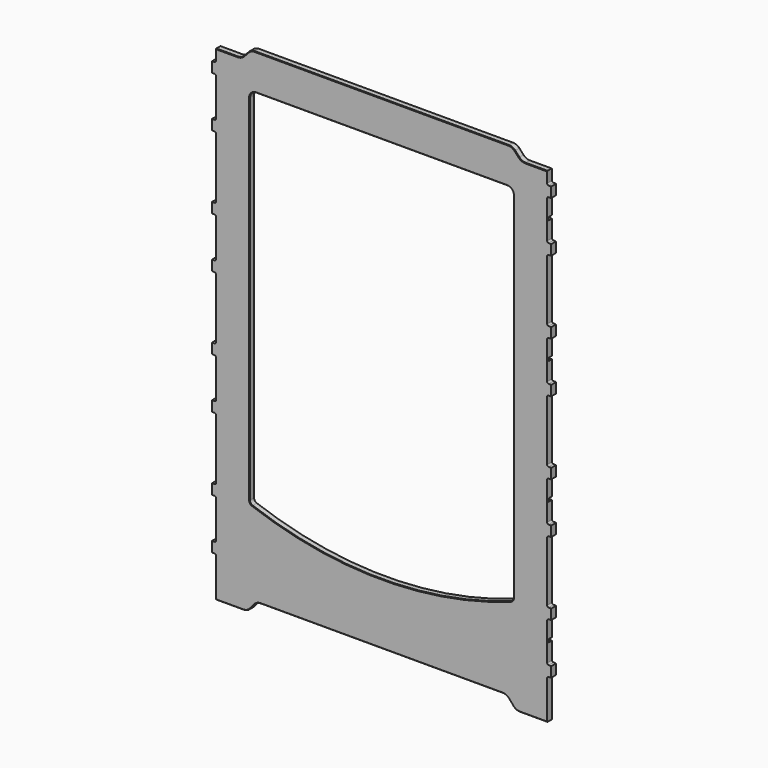
from build123d import *

# Parameters (mm, degrees)
F0_W      = 326.2
F0_H      = 488
F1_DEPTH  = 6
F3_DEPTH  = 6
F4_R      = 1.5
F6_DEPTH  = 25
F7_R      = 6.5
F8_R      = 4
F9_SIZE   = 0.5
F11_DEPTH = 25
F12_R     = 8.5
F13_SIZE  = 0.5
F15_DEPTH = 25
F16_R     = 8.5
F17_SIZE  = 0.5
F18_W     = 6.3
F18_H     = 3
F19_DEPTH = 4.5
F21_DEPTH = 4.5
F23_DEPTH = 1
F25_DEPTH = 4.5


with BuildPart() as f1:
    # F0 (on Front) → F1 (new body)
    with BuildSketch(Plane.XZ):
        Rectangle(F0_W, F0_H)
    extrude(amount=F1_DEPTH)

    # F2 (on face) → F3 (join)
    with BuildSketch(Plane.XZ.offset(6)):
        Polygon((-167.1, 211.8), (-163.1, 211.660316922), (-163.1, 221.939683078), (-167.1, 221.8), align=None)
        Polygon((-167.1, 161.8), (-163.1, 161.660316922), (-163.1, 171.939683078), (-167.1, 171.8), align=None)
        Polygon((-167.1, 89.8), (-163.1, 89.660316922), (-163.1, 99.939683078), (-167.1, 99.8), align=None)
        Polygon((-167.1, 39.8), (-163.1, 39.660316922), (-163.1, 49.939683078), (-167.1, 49.8), align=None)
        Polygon((-167.1, -32.2), (-163.1, -32.339683078), (-163.1, -22.060316922), (-167.1, -22.2), align=None)
        Polygon((-167.1, -82.2), (-163.1, -82.339683078), (-163.1, -72.060316922), (-167.1, -72.2), align=None)
        Polygon((-167.1, -154.2), (-163.1, -154.339683078), (-163.1, -144.060316922), (-167.1, -144.2), align=None)
        Polygon((-167.1, -194.2), (-167.1, -204.2), (-163.1, -204.339683078), (-163.1, -194.060316922), align=None)
        Polygon((163.1, -194.060316922), (163.1, -204.339683078), (167.1, -204.2), (167.1, -194.2), align=None)
        Polygon((163.1, -144.060316922), (163.1, -154.339683078), (167.1, -154.2), (167.1, -144.2), align=None)
        Polygon((163.1, -72.060316922), (163.1, -82.339683078), (167.1, -82.2), (167.1, -72.2), align=None)
        Polygon((163.1, -22.060316922), (163.1, -32.339683078), (167.1, -32.2), (167.1, -22.2), align=None)
        Polygon((163.1, 49.939683078), (163.1, 39.660316922), (167.1, 39.8), (167.1, 49.8), align=None)
        Polygon((163.1, 99.939683078), (163.1, 89.660316922), (167.1, 89.8), (167.1, 99.8), align=None)
        Polygon((163.1, 171.939683078), (163.1, 161.660316922), (167.1, 161.8), (167.1, 171.8), align=None)
        Polygon((163.1, 221.939683078), (163.1, 211.660316922), (167.1, 211.8), (167.1, 221.8), align=None)
    extrude(amount=-F3_DEPTH)

    # F4
    f4_edges = [f1.edges().sort_by_distance(p)[0] for p in [
        (-163.1, -3, -204.339683),
        (-163.1, -3, -194.060317),
        (-163.1, -3, -154.339683),
        (-163.1, -3, -72.060317),
        (-163.1, -3, -82.339683),
        (-163.1, -3, -144.060317),
        (-163.1, -3, -22.060317),
        (-163.1, -3, -32.339683),
        (-163.1, -3, 39.660317),
        (-163.1, -3, 89.660317),
        (-163.1, -3, 161.660317),
        (-163.1, -3, 221.939683),
        (-163.1, -3, 171.939683),
        (-163.1, -3, 99.939683),
        (-163.1, -3, 49.939683),
        (-163.1, -3, 211.660317),
        (163.1, -3, 221.939683),
        (163.1, -3, 171.939683),
        (163.1, -3, 99.939683),
        (163.1, -3, 49.939683),
        (163.1, -3, -22.060317),
        (163.1, -3, -72.060317),
        (163.1, -3, -194.060317),
        (163.1, -3, -144.060317),
        (163.1, -3, -204.339683),
        (163.1, -3, -154.339683),
        (163.1, -3, -82.339683),
        (163.1, -3, -32.339683),
        (163.1, -3, 39.660317),
        (163.1, -3, 89.660317),
        (163.1, -3, 161.660317),
        (163.1, -3, 211.660317),
    ]]
    fillet(f4_edges, radius=F4_R)

    # F5 (on face) → F6 (cut)
    with BuildSketch(Plane.XZ.offset(6)):
        with BuildLine():
            Line((130, -149.7456467392), (130, 208.5))
            Line((130, 208.5), (-130, 208.5))
            Line((-130, 208.5), (-130, -149.7456467392))
            ThreePointArc((-130, -149.7456467392), (0, -173), (130, -149.7456467392))
        make_face()
    extrude(amount=-F6_DEPTH, mode=Mode.SUBTRACT)

    # F7
    f7_edges = [f1.edges().sort_by_distance(p)[0] for p in [
        (-130, -3, 208.5),
        (130, -3, 208.5),
    ]]
    fillet(f7_edges, radius=F7_R)

    # F8
    f8_edges = [f1.edges().sort_by_distance(p)[0] for p in [
        (130, -3, -149.745647),
        (-130, -3, -149.745647),
    ]]
    fillet(f8_edges, radius=F8_R)

    # F9
    f9_edges = [f1.edges().sort_by_distance(p)[0] for p in [
        (130, 0, 27.52579),
        (130, -6, 27.52579),
    ]]
    chamfer(f9_edges, length=F9_SIZE)

    # F10 (on face) → F11 (cut)
    with BuildSketch(Plane.XZ.offset(6)):
        Polygon((-122.98, -233.09), (-132.1345769761, -244), (132.1345769761, -244), (122.98, -233.09), align=None)
    extrude(amount=-F11_DEPTH, mode=Mode.SUBTRACT)

    # F12
    f12_edges = [f1.edges().sort_by_distance(p)[0] for p in [
        (-132.134577, -3, -244),
        (-122.98, -3, -233.09),
        (122.98, -3, -233.09),
        (132.134577, -3, -244),
    ]]
    fillet(f12_edges, radius=F12_R)

    # F13
    f13_edges = [f1.edges().sort_by_distance(p)[0] for p in [
        (149.599096, 0, -244),
        (149.599096, -6, -244),
    ]]
    chamfer(f13_edges, length=F13_SIZE)

    # F14 (on face) → F15 (cut)
    with BuildSketch(Plane.XZ.offset(6)):
        Polygon((-163.1, 244), (-163.1, 234), (-137.9699552437, 234), (-128.8066435035, 244), align=None)
        Polygon((163.1, 244), (128.8066435035, 244), (137.9699552437, 234), (163.1, 234), align=None)
    extrude(amount=-F15_DEPTH, mode=Mode.SUBTRACT)

    # F16
    f16_edges = [f1.edges().sort_by_distance(p)[0] for p in [
        (-137.969955, -3, 234),
        (-128.806644, -3, 244),
        (128.806644, -3, 244),
        (137.969955, -3, 234),
    ]]
    fillet(f16_edges, radius=F16_R)

    # F17
    f17_edges = [f1.edges().sort_by_distance(p)[0] for p in [
        (-152.405022, -6, 234),
        (-152.405022, 0, 234),
    ]]
    chamfer(f17_edges, length=F17_SIZE)

    # F18 (on face) → F19 (cut)
    with BuildSketch(Plane(origin=(0, 0, 0), x_dir=(-1, 0, 0), z_dir=(0, 1, 0))):
        with Locations((-159.95, 191.8)):
            Rectangle(F18_W, F18_H)
        with BuildLine():
            Line((-155.1, 193.3), (-155.1, 190.3))
            Line((-155.1, 190.3), (-153.1, 190.3))
            ThreePointArc((-153.1, 190.3), (-151.6, 191.8), (-153.1, 193.3))
            Line((-153.1, 193.3), (-155.1, 193.3))
        make_face()
        with BuildLine():
            Line((-156.8, 193.3), (-156.8, 190.3))
            Line((-156.8, 190.3), (-156.8, 189.3))
            ThreePointArc((-156.8, 189.3), (-155.95, 188.45), (-155.1, 189.3))
            Line((-155.1, 189.3), (-155.1, 190.3))
            Line((-155.1, 190.3), (-155.1, 193.3))
            Line((-155.1, 193.3), (-155.1, 194.3))
            ThreePointArc((-155.1, 194.3), (-155.95, 195.15), (-156.8, 194.3))
            Line((-156.8, 194.3), (-156.8, 193.3))
        make_face()
        with Locations((-159.95, -52.2)):
            Rectangle(F18_W, F18_H)
        with BuildLine():
            Line((-156.8, -50.7), (-156.8, -53.7))
            Line((-156.8, -53.7), (-156.8, -54.7))
            ThreePointArc((-156.8, -54.7), (-155.95, -55.55), (-155.1, -54.7))
            Line((-155.1, -54.7), (-155.1, -53.7))
            Line((-155.1, -53.7), (-155.1, -50.7))
            Line((-155.1, -50.7), (-155.1, -49.7))
            ThreePointArc((-155.1, -49.7), (-155.95, -48.85), (-156.8, -49.7))
            Line((-156.8, -49.7), (-156.8, -50.7))
        make_face()
        with BuildLine():
            Line((-155.1, -50.7), (-155.1, -53.7))
            Line((-155.1, -53.7), (-153.1, -53.7))
            ThreePointArc((-153.1, -53.7), (-151.6, -52.2), (-153.1, -50.7))
            Line((-153.1, -50.7), (-155.1, -50.7))
        make_face()
        with Locations((-159.95, -174.2)):
            Rectangle(F18_W, F18_H)
        with BuildLine():
            Line((-156.8, -171.7), (-156.8, -172.7))
            Line((-156.8, -172.7), (-156.8, -175.7))
            Line((-156.8, -175.7), (-156.8, -176.7))
            ThreePointArc((-156.8, -176.7), (-155.95, -177.55), (-155.1, -176.7))
            Line((-155.1, -176.7), (-155.1, -175.7))
            Line((-155.1, -175.7), (-155.1, -172.7))
            Line((-155.1, -172.7), (-155.1, -171.7))
            ThreePointArc((-155.1, -171.7), (-155.95, -170.85), (-156.8, -171.7))
        make_face()
        with BuildLine():
            Line((-153.1, -172.7), (-155.1, -172.7))
            Line((-155.1, -172.7), (-155.1, -175.7))
            Line((-155.1, -175.7), (-153.1, -175.7))
            ThreePointArc((-153.1, -175.7), (-151.6, -174.2), (-153.1, -172.7))
        make_face()
        with Locations((-159.95, 69.8)):
            Rectangle(F18_W, F18_H)
        with BuildLine():
            Line((-156.8, 71.3), (-156.8, 68.3))
            Line((-156.8, 68.3), (-156.8, 67.3))
            ThreePointArc((-156.8, 67.3), (-155.95, 66.45), (-155.1, 67.3))
            Line((-155.1, 67.3), (-155.1, 68.3))
            Line((-155.1, 68.3), (-155.1, 71.3))
            Line((-155.1, 71.3), (-155.1, 72.3))
            ThreePointArc((-155.1, 72.3), (-155.95, 73.15), (-156.8, 72.3))
            Line((-156.8, 72.3), (-156.8, 71.3))
        make_face()
        with BuildLine():
            Line((-155.1, 71.3), (-155.1, 68.3))
            Line((-155.1, 68.3), (-153.1, 68.3))
            ThreePointArc((-153.1, 68.3), (-151.6, 69.8), (-153.1, 71.3))
            Line((-153.1, 71.3), (-155.1, 71.3))
        make_face()
        with Locations((159.95, -174.2)):
            Rectangle(F18_W, F18_H)
        with BuildLine():
            Line((153.1, -175.7), (155.1, -175.7))
            Line((155.1, -175.7), (155.1, -172.7))
            Line((155.1, -172.7), (153.1, -172.7))
            ThreePointArc((153.1, -172.7), (151.6, -174.2), (153.1, -175.7))
        make_face()
        with BuildLine():
            Line((156.8, -176.7), (156.8, -175.7))
            Line((156.8, -175.7), (156.8, -172.7))
            Line((156.8, -172.7), (156.8, -171.7))
            ThreePointArc((156.8, -171.7), (155.95, -170.85), (155.1, -171.7))
            Line((155.1, -171.7), (155.1, -172.7))
            Line((155.1, -172.7), (155.1, -175.7))
            Line((155.1, -175.7), (155.1, -176.7))
            ThreePointArc((155.1, -176.7), (155.95, -177.55), (156.8, -176.7))
        make_face()
        with BuildLine():
            Line((153.1, -53.7), (155.1, -53.7))
            Line((155.1, -53.7), (155.1, -50.7))
            Line((155.1, -50.7), (153.1, -50.7))
            ThreePointArc((153.1, -50.7), (151.6, -52.2), (153.1, -53.7))
        make_face()
        with BuildLine():
            Line((156.8, -54.7), (156.8, -53.7))
            Line((156.8, -53.7), (156.8, -50.7))
            Line((156.8, -50.7), (156.8, -49.7))
            ThreePointArc((156.8, -49.7), (155.95, -48.85), (155.1, -49.7))
            Line((155.1, -49.7), (155.1, -50.7))
            Line((155.1, -50.7), (155.1, -53.7))
            Line((155.1, -53.7), (155.1, -54.7))
            ThreePointArc((155.1, -54.7), (155.95, -55.55), (156.8, -54.7))
        make_face()
        with Locations((159.95, -52.2)):
            Rectangle(F18_W, F18_H)
        with BuildLine():
            Line((153.1, 68.3), (155.1, 68.3))
            Line((155.1, 68.3), (155.1, 71.3))
            Line((155.1, 71.3), (153.1, 71.3))
            ThreePointArc((153.1, 71.3), (151.6, 69.8), (153.1, 68.3))
        make_face()
        with BuildLine():
            Line((156.8, 67.3), (156.8, 68.3))
            Line((156.8, 68.3), (156.8, 71.3))
            Line((156.8, 71.3), (156.8, 72.3))
            ThreePointArc((156.8, 72.3), (155.95, 73.15), (155.1, 72.3))
            Line((155.1, 72.3), (155.1, 71.3))
            Line((155.1, 71.3), (155.1, 68.3))
            Line((155.1, 68.3), (155.1, 67.3))
            ThreePointArc((155.1, 67.3), (155.95, 66.45), (156.8, 67.3))
        make_face()
        with Locations((159.95, 69.8)):
            Rectangle(F18_W, F18_H)
        with BuildLine():
            Line((155.1, 190.3), (155.1, 193.3))
            Line((155.1, 193.3), (153.1, 193.3))
            ThreePointArc((153.1, 193.3), (151.6, 191.8), (153.1, 190.3))
            Line((153.1, 190.3), (155.1, 190.3))
        make_face()
        with BuildLine():
            Line((156.8, 190.3), (156.8, 193.3))
            Line((156.8, 193.3), (156.8, 194.3))
            ThreePointArc((156.8, 194.3), (155.95, 195.15), (155.1, 194.3))
            Line((155.1, 194.3), (155.1, 193.3))
            Line((155.1, 193.3), (155.1, 190.3))
            Line((155.1, 190.3), (155.1, 189.3))
            ThreePointArc((155.1, 189.3), (155.95, 188.45), (156.8, 189.3))
            Line((156.8, 189.3), (156.8, 190.3))
        make_face()
        with Locations((159.95, 191.8)):
            Rectangle(F18_W, F18_H)
    extrude(amount=-F19_DEPTH, mode=Mode.SUBTRACT)

    # F20 (on face) → F21 (cut)
    with BuildSketch(Plane(origin=(0, 0, 0), x_dir=(-1, 0, 0), z_dir=(0, 1, 0))):
        with BuildLine():
            Line((-96.75, 233.9), (-86.75, 233.9))
            ThreePointArc((-86.75, 233.9), (-83.65, 237), (-86.75, 240.1))
            Line((-86.75, 240.1), (-96.75, 240.1))
            ThreePointArc((-96.75, 240.1), (-99.85, 237), (-96.75, 233.9))
        make_face()
        with BuildLine():
            ThreePointArc((96.75, 233.9), (99.85, 237), (96.75, 240.1))
            Line((96.75, 240.1), (86.75, 240.1))
            ThreePointArc((86.75, 240.1), (83.65, 237), (86.75, 233.9))
            Line((86.75, 233.9), (96.75, 233.9))
        make_face()
        with BuildLine():
            Line((-146.8, -200.1), (-136.8, -200.1))
            ThreePointArc((-136.8, -200.1), (-133.7, -197), (-136.8, -193.9))
            Line((-136.8, -193.9), (-146.8, -193.9))
            ThreePointArc((-146.8, -193.9), (-149.9, -197), (-146.8, -200.1))
        make_face()
        with BuildLine():
            ThreePointArc((136.8, -193.9), (133.7, -197), (136.8, -200.1))
            Line((136.8, -200.1), (146.8, -200.1))
            ThreePointArc((146.8, -200.1), (149.9, -197), (146.8, -193.9))
            Line((146.8, -193.9), (136.8, -193.9))
        make_face()
    extrude(amount=-F21_DEPTH, mode=Mode.SUBTRACT)

    # F22 (on face) → F23 (cut)
    with BuildSketch(Plane(origin=(0, 0, 0), x_dir=(-1, 0, 0), z_dir=(0, 1, 0))):
        with BuildLine():
            ThreePointArc((-23, 240.1), (-26.1, 237), (-23, 233.9))
            Line((-23, 233.9), (-13, 233.9))
            ThreePointArc((-13, 233.9), (-9.9, 237), (-13, 240.1))
            Line((-13, 240.1), (-23, 240.1))
        make_face()
        with BuildLine():
            ThreePointArc((13, 240.1), (9.9, 237), (13, 233.9))
            Line((13, 233.9), (23, 233.9))
            ThreePointArc((23, 233.9), (26.1, 237), (23, 240.1))
            Line((23, 240.1), (13, 240.1))
        make_face()
    extrude(amount=-F23_DEPTH, mode=Mode.SUBTRACT)

    # F24 (on face) → F25 (cut)
    with BuildSketch(Plane(origin=(0, 0, 0), x_dir=(-1, 0, 0), z_dir=(0, 1, 0))):
        with BuildLine():
            ThreePointArc((-13, 237.1), (-11.5, 238.6), (-13, 240.1))
            Line((-13, 240.1), (-23, 240.1))
            ThreePointArc((-23, 240.1), (-24.5, 238.6), (-23, 237.1))
            Line((-23, 237.1), (-23, 233.9))
            Line((-23, 233.9), (-13, 233.9))
            Line((-13, 233.9), (-13, 237.1))
        make_face()
        with BuildLine():
            ThreePointArc((-14.5, 232.4), (-13.4393398282, 232.8393398282), (-13, 233.9))
            Line((-13, 233.9), (-23, 233.9))
            ThreePointArc((-23, 233.9), (-22.5606601718, 232.8393398282), (-21.5, 232.4))
            Line((-21.5, 232.4), (-14.5, 232.4))
        make_face()
        with BuildLine():
            Line((23, 240.1), (13, 240.1))
            ThreePointArc((13, 240.1), (11.5, 238.6), (13, 237.1))
            Line((13, 237.1), (13, 233.9))
            Line((13, 233.9), (23, 233.9))
            Line((23, 233.9), (23, 237.1))
            ThreePointArc((23, 237.1), (24.5, 238.6), (23, 240.1))
        make_face()
        with BuildLine():
            Line((23, 233.9), (13, 233.9))
            ThreePointArc((13, 233.9), (13.4393398282, 232.8393398282), (14.5, 232.4))
            Line((14.5, 232.4), (21.5, 232.4))
            ThreePointArc((21.5, 232.4), (22.5606601718, 232.8393398282), (23, 233.9))
        make_face()
    extrude(amount=-F25_DEPTH, mode=Mode.SUBTRACT)


solid = f1.part
